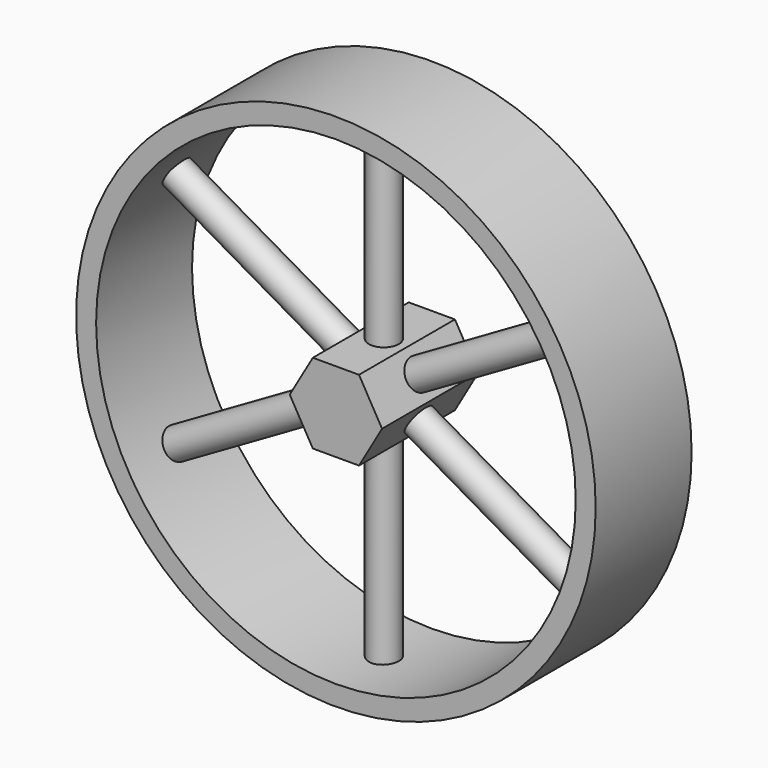
from build123d import *

# Parameters (mm, degrees)
F0_R     = 82.55
F0_R_2   = 76.2
F1_DEPTH = 38.1
F3_W     = 4.7625
F3_H     = 63.5
F5_COUNT = 6


with BuildPart() as f1:
    # F0 (on Front) → F1 (new body)
    with BuildSketch(Plane.XZ):
        Circle(F0_R)
        Circle(F0_R_2, mode=Mode.SUBTRACT)
        Polygon((14.664697, 0), (7.332348, 12.7), (-7.332348, 12.7), (-14.664697, 0), (-7.332348, -12.7), (7.332348, -12.7), align=None)
    extrude(amount=F1_DEPTH)


with BuildPart() as f4:
    # F3 (on mid) → F4 (revolve)
    with BuildSketch(Plane.XZ.offset(19.05)):
        with Locations((2.38125, 44.45)):
            Rectangle(F3_W, F3_H)
    revolve(axis=Axis((0, -19.05, 44.45), (0, 0, 1)))


with BuildPart() as f5_1:
    # F5: instance of F4
    add(f4.part.rotate(Axis((0, 0, 0), (0, 1, 0)), 1 * 360 / F5_COUNT))


with BuildPart() as f5_2:
    # F5: instance of F4
    add(f4.part.rotate(Axis((0, 0, 0), (0, 1, 0)), 2 * 360 / F5_COUNT))


with BuildPart() as f5_3:
    # F5: instance of F4
    add(f4.part.rotate(Axis((0, 0, 0), (0, 1, 0)), 3 * 360 / F5_COUNT))


with BuildPart() as f5_4:
    # F5: instance of F4
    add(f4.part.rotate(Axis((0, 0, 0), (0, 1, 0)), 4 * 360 / F5_COUNT))


with BuildPart() as f5_5:
    # F5: instance of F4
    add(f4.part.rotate(Axis((0, 0, 0), (0, 1, 0)), 5 * 360 / F5_COUNT))


solid = Compound([f1.part, f4.part, f5_1.part, f5_2.part, f5_3.part, f5_4.part, f5_5.part])
